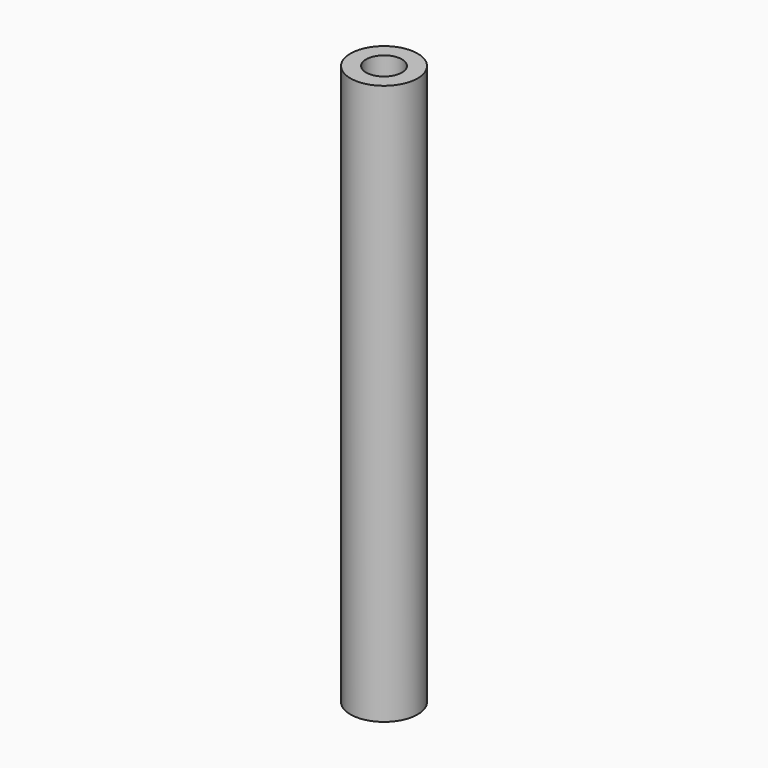
from build123d import *

# Parameters (mm, degrees)
SKETCH_R   = 3
SKETCH_R_2 = 1.6
PAD_DEPTH  = 50


with BuildPart() as part:
    # Sketch → Pad (new body)
    with BuildSketch(Plane.XY):
        Circle(SKETCH_R)
        Circle(SKETCH_R_2, mode=Mode.SUBTRACT)
    extrude(amount=PAD_DEPTH)


solid = part.part
